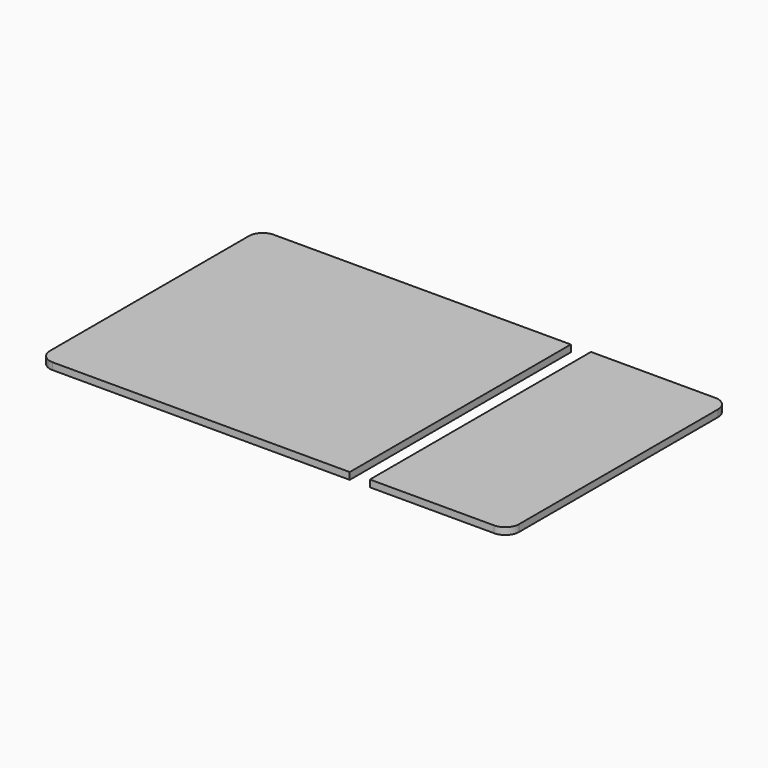
from build123d import *

# Parameters (mm, degrees)
F1_DEPTH = 10
F3_DEPTH = 10


with BuildPart() as f1:
    # F0 (on Top) → F1 (new body)
    with BuildSketch(Plane.XY):
        with BuildLine():
            Line((-430, 0), (0, 0))
            Line((0, 0), (0, 400))
            Line((0, 400), (-430, 400))
            ThreePointArc((-430, 400), (-444.142136, 394.142136), (-450, 380))
            Line((-450, 380), (-450, 20))
            ThreePointArc((-450, 20), (-444.142136, 5.857864), (-430, 0))
        make_face()
    extrude(amount=F1_DEPTH)


with BuildPart() as f3:
    # F2 (on Top) → F3 (new body)
    with BuildSketch(Plane.XY):
        with BuildLine():
            Line((29.163611, 400), (29.163611, 0))
            Line((29.163611, 0), (209.163611, 0))
            ThreePointArc((209.163611, 0), (223.305746, 5.857864), (229.163611, 20))
            Line((229.163611, 20), (229.163611, 380))
            ThreePointArc((229.163611, 380), (223.305746, 394.142136), (209.163611, 400))
            Line((209.163611, 400), (29.163611, 400))
        make_face()
    extrude(amount=F3_DEPTH)


solid = Compound([f1.part, f3.part])
